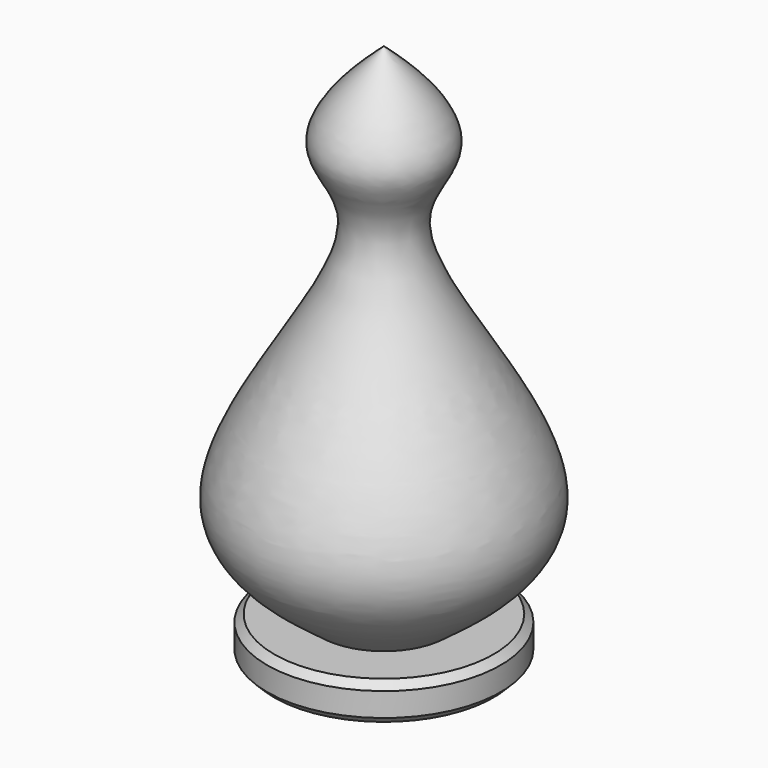
from build123d import *

# Parameters (mm, degrees)
F2_SIZE = 0.254


with BuildPart() as f1:
    # F0 (on Front) → F1 (revolve)
    with BuildSketch(Plane.XZ):
        with BuildLine():
            add(Edge.make_bspline(
                [(-2.2357851444, 1.3470440552), (-3.4653206702, 2.2849090351), (-7.5098162756, 4.8321274415), (0.5031474686, 13.349557607), (-3.1792775632, 15.9650438718), (-1.0703927229, 18.1067038529), (0, 19.05)],
                knots=[0, 0, 0, 0, 0.2469778436, 0.5907956684, 0.7804509336, 1, 1, 1, 1], degree=3))
            Line((-2.2357851444, 1.3470440552), (-4.1353144864, 1.3470440552))
            Line((-4.1353144864, 1.3470440552), (-4.1353144864, 0))
            Line((-4.1353144864, 0), (0, 0))
            Line((0, 0), (0, 19.05))
        make_face()
    revolve(axis=Axis((0, 0, 9.525), (0, 0, -1)))

    # F2
    f2_edges = [f1.edges().sort_by_distance(p)[0] for p in [
        (4.135314, 0, 1.347044),
        (4.135314, 0, 0),
        (-4.135314, 0, 0.673522),
    ]]
    chamfer(f2_edges, length=F2_SIZE)


solid = f1.part
